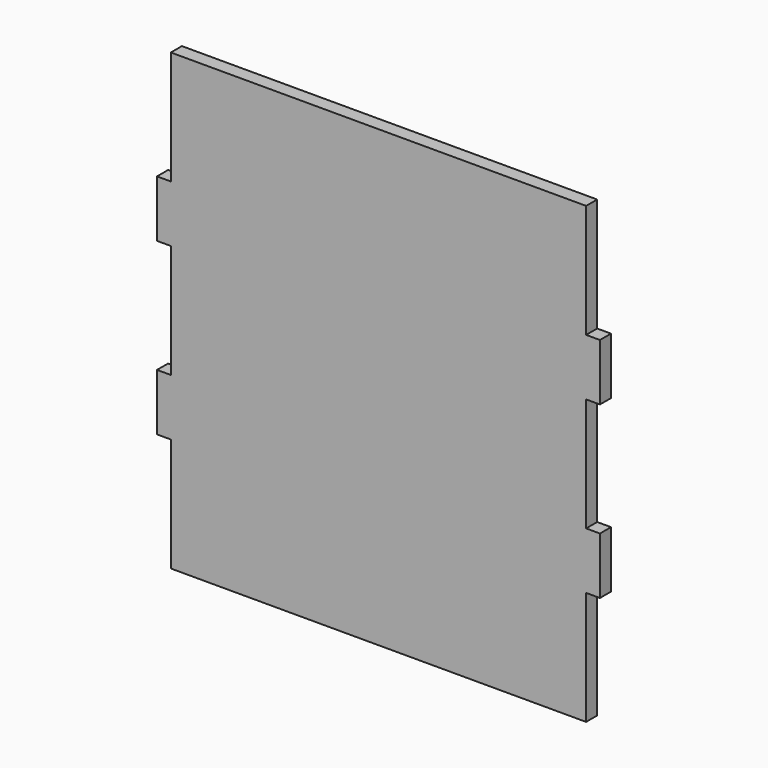
from build123d import *

# Parameters (mm, degrees)
F0_W     = 18.542
F0_H     = 76.2
F1_DEPTH = 18.542


with BuildPart() as f1:
    # F0 (on Front) → F1 (new body)
    with BuildSketch(Plane.XZ):
        Polygon((-11.739609, 457.2), (-569.015609, 457.2), (-569.015609, 304.8), (-569.015609, 228.6), (-569.015609, 76.2), (-569.015609, 0), (-569.015609, -152.4), (-11.739609, -152.4), (-11.739609, 0), (-11.739609, 76.2), (-11.739609, 228.6), (-11.739609, 304.8), align=None)
        with Locations((-578.286609, 266.7)):
            Rectangle(F0_W, F0_H)
        with Locations((-578.286609, 38.1)):
            Rectangle(F0_W, F0_H)
        with Locations((-2.468609, 266.7)):
            Rectangle(F0_W, F0_H)
        with Locations((-2.468609, 38.1)):
            Rectangle(F0_W, F0_H)
    extrude(amount=F1_DEPTH)


solid = f1.part
